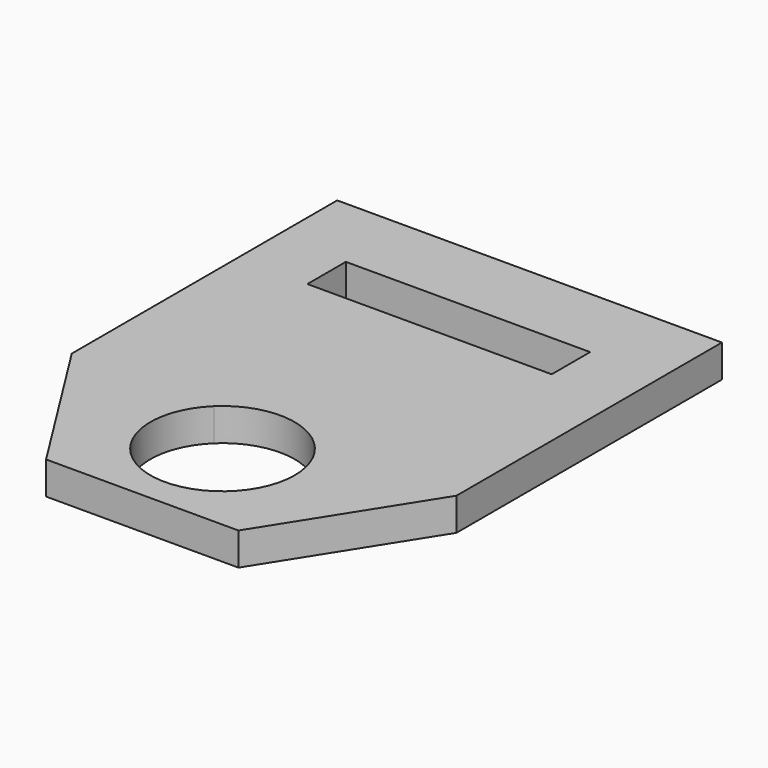
from build123d import *

# Parameters (mm, degrees)
F1_DEPTH = 3.4
F2_DEPTH = 3.4


with BuildPart() as f1:
    # F0 (on Top) → F1 (new body)
    with BuildSketch(Plane.XY):
        with BuildLine():
            Line((5.195933, -17.248322), (20, -17.248322))
            Line((20, -17.248322), (20, 17.248322))
            Line((20, 17.248322), (-20, 17.248322))
            Line((-20, 17.248322), (-20, -17.248322))
            Line((-20, -17.248322), (-5.195933, -17.248322))
            ThreePointArc((-5.195933, -17.248322), (0, -15.15686), (5.195933, -17.248322))
        make_face()
        Polygon((0, 9.248322), (12.7, 9.248322), (12.7, 4.248322), (-12.7, 4.248322), (-12.7, 9.248322), align=None, mode=Mode.SUBTRACT)
        with BuildLine():
            Line((10, -33.084705), (20, -17.248322))
            Line((20, -17.248322), (5.195933, -17.248322))
            ThreePointArc((5.195933, -17.248322), (6.899982, -19.717429), (7.5, -22.65686))
            ThreePointArc((7.5, -22.65686), (-2.939431, -29.556841), (-5.195933, -17.248322))
            Line((-5.195933, -17.248322), (-20, -17.248322))
            Line((-20, -17.248322), (-10, -33.084705))
            Line((-10, -33.084705), (0, -33.084705))
            Line((0, -33.084705), (10, -33.084705))
        make_face()
    extrude(amount=F1_DEPTH)

    # F0 (on Top) → F2 (join)
    with BuildSketch(Plane.XY):
        with BuildLine():
            Line((10, -33.084705), (20, -17.248322))
            Line((20, -17.248322), (5.195933, -17.248322))
            ThreePointArc((5.195933, -17.248322), (6.899982, -19.717429), (7.5, -22.65686))
            ThreePointArc((7.5, -22.65686), (-2.939431, -29.556841), (-5.195933, -17.248322))
            Line((-5.195933, -17.248322), (-20, -17.248322))
            Line((-20, -17.248322), (-10, -33.084705))
            Line((-10, -33.084705), (0, -33.084705))
            Line((0, -33.084705), (10, -33.084705))
        make_face()
        with BuildLine():
            Line((5.195933, -17.248322), (20, -17.248322))
            Line((20, -17.248322), (20, 17.248322))
            Line((20, 17.248322), (-20, 17.248322))
            Line((-20, 17.248322), (-20, -17.248322))
            Line((-20, -17.248322), (-5.195933, -17.248322))
            ThreePointArc((-5.195933, -17.248322), (0, -15.15686), (5.195933, -17.248322))
        make_face()
        Polygon((0, 9.248322), (12.7, 9.248322), (12.7, 4.248322), (-12.7, 4.248322), (-12.7, 9.248322), align=None, mode=Mode.SUBTRACT)
    extrude(amount=F2_DEPTH)


solid = f1.part
